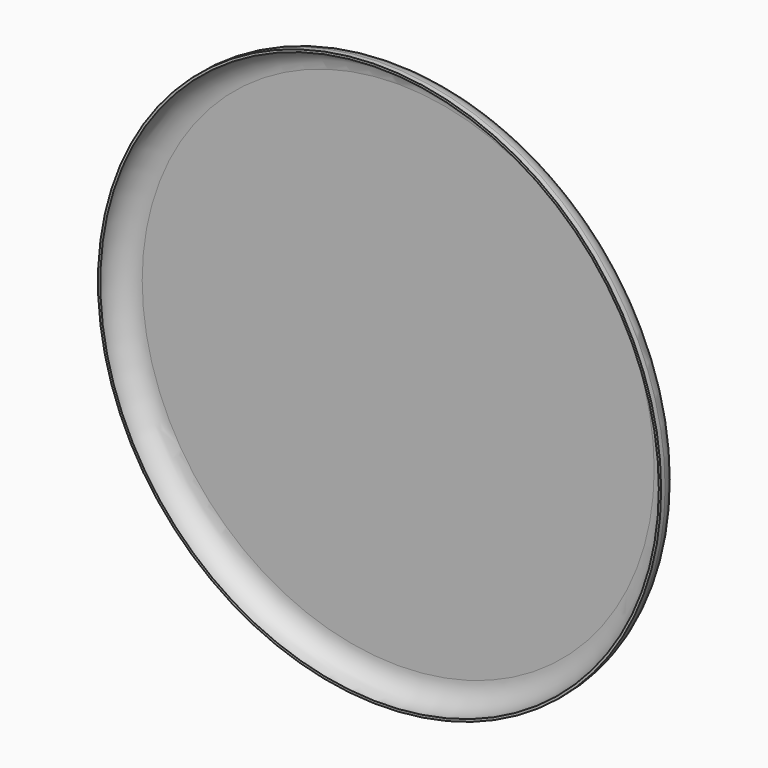
from build123d import *


with BuildPart() as part:
    # Sketch → Revolution (revolve)
    with BuildSketch(Plane.XY):
        with BuildLine():
            Line((0, 0), (2802.79514, 0))
            ThreePointArc((3025, -222.20486), (2953.174265, -71.825735), (2802.79514, 0))
            Line((3025, -222.20486), (3025, -275))
            Line((3025, -275), (3000, -275))
            ThreePointArc((3000, -275), (2926.776695, -98.223305), (2750, -25))
            Line((2750, -25), (0, -25))
            Line((0, -25), (0, 0))
        make_face()
    revolve(axis=Axis((0, 0, 0), (0, 1, 0)))


solid = part.part
